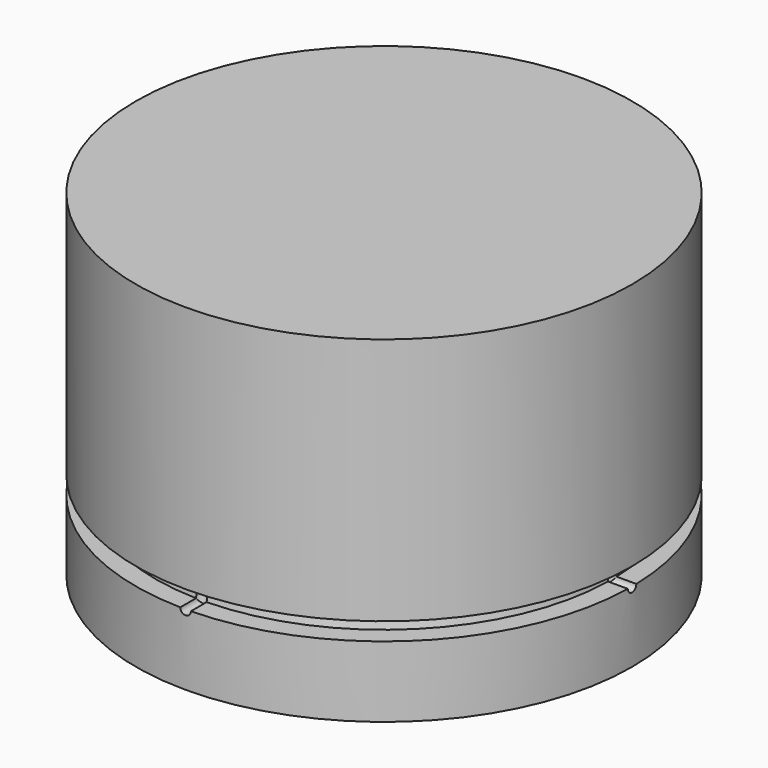
from build123d import *

# Parameters (mm, degrees)
F2_R     = 2
F6_R     = 1.5
F8_COUNT = 4
F8_ANGLE = 270
F9_R     = 2


with BuildPart() as f1:
    # F0 (on Front) → F1 (revolve)
    with BuildSketch(Plane.XZ):
        with BuildLine():
            Line((0, 8.2967793557), (0, 37.2967793557))
            Line((0, 37.2967793557), (-16, 37.2967793557))
            Line((-16, 37.2967793557), (-17, 12.9440022976))
            Line((-17, 12.9440022976), (-24.1472229419, 5.7967793557))
            Line((-24.1472229419, 5.7967793557), (-35.8919905878, 5.7967793557))
            Line((-35.8919905878, 5.7967793557), (-48.490473047, -0.0779894962))
            ThreePointArc((-48.490473047, -0.0779894962), (-44.6508015666, -0.329654861), (-42.8, -3.7032206443))
            Line((-42.8, -3.7032206443), (-19.2309811771, -3.7032206443))
            Line((-19.2309811771, -3.7032206443), (-15, 0.5277605328))
            Line((-15, 0.5277605328), (-15, 8.2967793557))
            Line((-15, 8.2967793557), (0, 8.2967793557))
        make_face()
        with BuildLine():
            ThreePointArc((-46.8, -7.7032206443), (-43.9715728753, -6.531647769), (-42.8, -3.7032206443))
            Line((-42.8, -3.7032206443), (-50.8, -3.7032206443))
            ThreePointArc((-50.8, -3.7032206443), (-49.6284271247, -6.531647769), (-46.8, -7.7032206443))
        make_face()
        with BuildLine():
            Line((-50.8, -3.7032206443), (-42.8, -3.7032206443))
            ThreePointArc((-42.8, -3.7032206443), (-44.6508015666, -0.329654861), (-48.490473047, -0.0779894962))
            ThreePointArc((-48.490473047, -0.0779894962), (-50.1735657833, -1.5540222109), (-50.8, -3.7032206443))
        make_face()
        with BuildLine():
            Line((-23.2309811771, -7.7032206443), (-19.2309811771, -3.7032206443))
            Line((-19.2309811771, -3.7032206443), (-42.8, -3.7032206443))
            ThreePointArc((-42.8, -3.7032206443), (-43.9715728753, -6.531647769), (-46.8, -7.7032206443))
            Line((-46.8, -7.7032206443), (-23.2309811771, -7.7032206443))
        make_face()
    revolve(axis=Axis((0, 0, 14.7967793557), (0, 0, 1)))

    # F2
    f2_edges = [f1.edges().sort_by_distance(p)[0] for p in [
        (16, 0, 37.296779),
    ]]
    fillet(f2_edges, radius=F2_R)


with BuildPart() as f3:
    # F0 (on Front) → F3 (revolve)
    with BuildSketch(Plane.XZ):
        with BuildLine():
            Line((-16, 37.2967793557), (0, 37.2967793557))
            Line((0, 37.2967793557), (0, 56.2967793557))
            Line((0, 56.2967793557), (-70, 56.2967793557))
            Line((-70, 56.2967793557), (-70, -3.7032206443))
            Line((-70, -3.7032206443), (-61.8, -3.7032206443))
            Line((-61.8, -3.7032206443), (-56.3, -3.7032206443))
            ThreePointArc((-56.3, -3.7032206443), (-54.8, -2.2032206443), (-53.3, -3.7032206443))
            Line((-53.3, -3.7032206443), (-50.8, -3.7032206443))
            ThreePointArc((-50.8, -3.7032206443), (-50.1735657833, -1.5540222109), (-48.490473047, -0.0779894962))
            Line((-48.490473047, -0.0779894962), (-35.8919905878, 5.7967793557))
            Line((-35.8919905878, 5.7967793557), (-24.1472229419, 5.7967793557))
            Line((-24.1472229419, 5.7967793557), (-17, 12.9440022976))
            Line((-17, 12.9440022976), (-16, 37.2967793557))
        make_face()
        Polygon((-61.8, -3.7032206443), (-70, -3.7032206443), (-70, -13.7032206443), (-63.5632698071, -13.7032206443), align=None)
        with BuildLine():
            ThreePointArc((-53.3, -3.7032206443), (-54.8, -2.2032206443), (-56.3, -3.7032206443))
            Line((-56.3, -3.7032206443), (-54.8, -3.7032206443))
            Line((-54.8, -3.7032206443), (-53.3, -3.7032206443))
        make_face()
    revolve(axis=Axis((0, 0, 26.2967793557), (0, 0, 1)))

    # F9
    f9_edges = [f3.edges().sort_by_distance(p)[0] for p in [
        (16, 0, 37.296779),
    ]]
    fillet(f9_edges, radius=F9_R)


with BuildPart() as f4:
    # F0 (on Front) → F4 (revolve)
    with BuildSketch(Plane.XZ):
        with BuildLine():
            Line((0, -7.7032206443), (0, -3.7032206443))
            Line((0, -3.7032206443), (-19.2309811771, -3.7032206443))
            Line((-19.2309811771, -3.7032206443), (-23.2309811771, -7.7032206443))
            Line((-23.2309811771, -7.7032206443), (-46.8, -7.7032206443))
            ThreePointArc((-46.8, -7.7032206443), (-49.6284271247, -6.531647769), (-50.8, -3.7032206443))
            Line((-50.8, -3.7032206443), (-53.3, -3.7032206443))
            ThreePointArc((-53.3, -3.7032206443), (-54.8, -5.2032206443), (-56.3, -3.7032206443))
            Line((-56.3, -3.7032206443), (-61.8, -3.7032206443))
            Line((-61.8, -3.7032206443), (-63.5632698071, -13.7032206443))
            Line((-63.5632698071, -13.7032206443), (-64.4449047106, -18.7032206443))
            Line((-64.4449047106, -18.7032206443), (-70, -18.7032206443))
            Line((-70, -18.7032206443), (-70, -38.7032206443))
            Line((-70, -38.7032206443), (0, -38.7032206443))
            Line((0, -38.7032206443), (0, -7.7032206443))
        make_face()
        Polygon((0, -3.7032206443), (0, 8.2967793557), (-15, 8.2967793557), (-15, 0.5277605328), (-19.2309811771, -3.7032206443), align=None)
    revolve(axis=Axis((0, 0, 14.7967793557), (0, 0, 1)))

    # F8: F7 ×4 about axis
    f8_axis = Axis((0, 0, 26.2967793557), (0, 0, 1))


with BuildPart() as f7:
    # F7: sweep along a path in F0
    with BuildLine(Plane.XZ) as f7_path:
        Line((-70, -18.7032206443), (-64.4449047106, -18.7032206443))
        Line((-64.4449047106, -18.7032206443), (-61.8, -3.7032206443))
        Line((-61.8, -3.7032206443), (-54.8, -3.7032206443))
    # F6 (on offset) → F7 (sweep)
    with BuildSketch(Plane.YZ.offset(-70)):
        with Locations((0, -18.7032206443)):
            Circle(F6_R)
    sweep(path=f7_path.line, transition=Transition.RIGHT)


with BuildPart() as f4_1:
    add(f4.part)
    for i in range(1, F8_COUNT):
        add(f7.part.rotate(f8_axis, i * F8_ANGLE / (F8_COUNT - 1)), mode=Mode.SUBTRACT)

    # F8#seed: cut F7
    add(f7.part, mode=Mode.SUBTRACT)


solid = Compound([f1.part, f3.part, f4_1.part])
